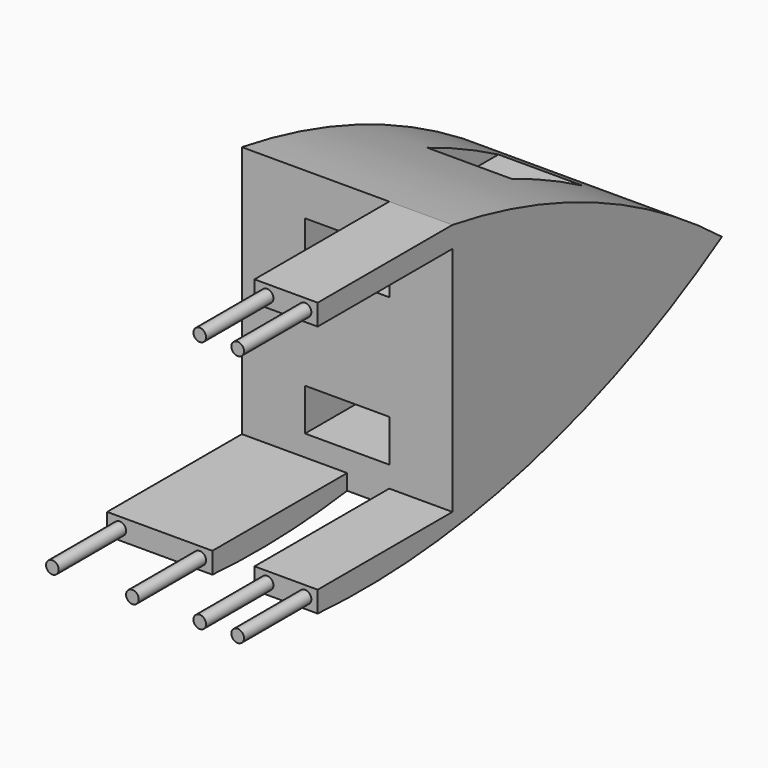
from build123d import *

# Parameters (mm, degrees)
F1_DEPTH  = 127
F2_W      = 25.4
F2_H      = 101.6
F3_DEPTH  = 25.4
F4_W      = 50.8
F4_H      = 25.4
F5_DEPTH  = 203.2
F6_R      = 3.81
F7_DEPTH  = 50.8
F8_R      = 3.81
F9_DEPTH  = 50.8
F10_W     = 38.1
F10_H     = 12.7
F11_DEPTH = 101.6
F12_R     = 3.81
F13_DEPTH = 50.8


with BuildPart() as f1:
    # F0 (on Right) → F1 (new body)
    with BuildSketch(Plane.YZ):
        with BuildLine():
            Line((-50.025108, 117.912475), (-50.025108, 29.012475))
            Line((-50.025108, 29.012475), (153.174892, 29.012475))
            ThreePointArc((153.174892, 29.012475), (57.178696, 86.271171), (-50.025108, 117.912475))
        make_face()
        with BuildLine():
            Line((153.174892, 29.012475), (-50.025108, 29.012475))
            Line((-50.025108, 29.012475), (-50.025108, -34.487525))
            Line((-50.025108, -34.487525), (-151.625108, -34.487525))
            Line((-151.625108, -34.487525), (-151.625108, -47.187525))
            ThreePointArc((-151.625108, -47.187525), (6.772136, -33.076502), (153.174892, 29.012475))
        make_face()
    extrude(amount=F1_DEPTH)

    # F2 (on face) → F3 (cut)
    with BuildSketch(Plane.XY.offset(-34.487525)):
        with Locations((76.2, -100.825108)):
            Rectangle(F2_W, F2_H)
    extrude(amount=-F3_DEPTH, mode=Mode.SUBTRACT)

    # F4 (on face) → F5 (cut)
    with BuildSketch(Plane.XZ.offset(50.025108)):
        with Locations((63.5, 79.812475)):
            Rectangle(F4_W, F4_H)
        with Locations((63.5, -9.087525)):
            Rectangle(F4_W, F4_H)
    extrude(amount=-F5_DEPTH, mode=Mode.SUBTRACT)

    # F6 (on face) → F7 (join)
    with BuildSketch(Plane.XZ.offset(151.625108)):
        with Locations((96.52, -40.837525)):
            Circle(F6_R)
        with Locations((119.38, -40.837525)):
            Circle(F6_R)
    extrude(amount=F7_DEPTH)

    # F8 (on face) → F9 (join)
    with BuildSketch(Plane.XZ.offset(151.625108)):
        with Locations((7.62, -40.837525)):
            Circle(F8_R)
        with Locations((55.88, -40.837525)):
            Circle(F8_R)
    extrude(amount=F9_DEPTH)

    # F10 (on face) → F11 (join)
    with BuildSketch(Plane.XZ.offset(50.025108)):
        with Locations((107.95, 111.562475)):
            Rectangle(F10_W, F10_H)
    extrude(amount=F11_DEPTH)

    # F12 (on face) → F13 (join)
    with BuildSketch(Plane.XZ.offset(151.625108)):
        with Locations((96.52, 111.562475)):
            Circle(F12_R)
        with Locations((119.38, 111.562475)):
            Circle(F12_R)
    extrude(amount=F13_DEPTH)


solid = f1.part
